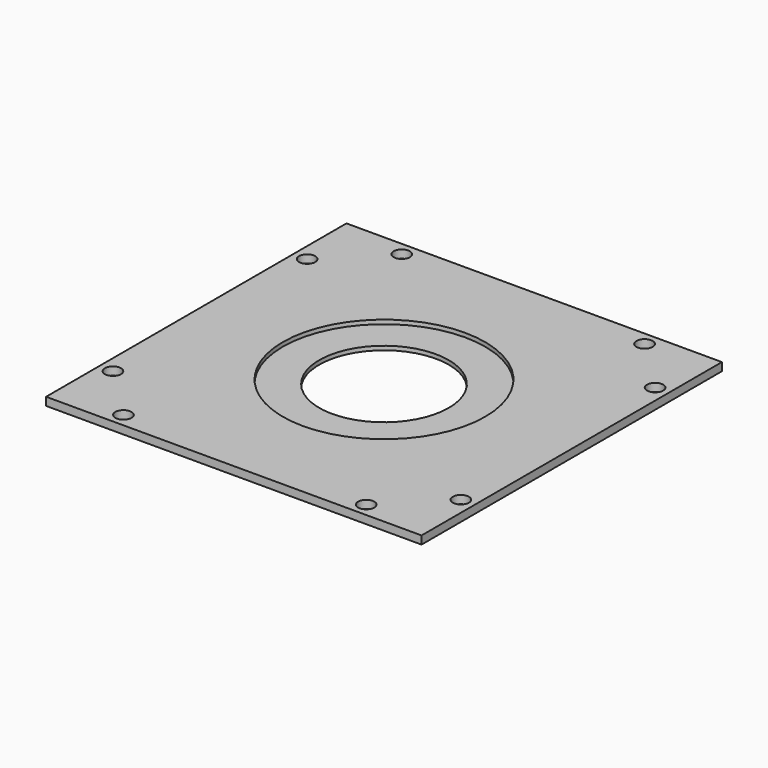
from build123d import *

# Parameters (mm, degrees)
F0_R     = 19.84375
F0_R_2   = 12.7
F1_DEPTH = 0.79375
F0_W     = 73.66
F0_H     = 73.66
F0_R_3   = 1.5875
F2_DEPTH = 1.5875


with BuildPart() as f1:
    # F0 (on Top) → F1 (new body)
    with BuildSketch(Plane.XY):
        Circle(F0_R)
        Circle(F0_R_2, mode=Mode.SUBTRACT)
    extrude(amount=F1_DEPTH)

    # F0 (on Top) → F2 (join)
    with BuildSketch(Plane.XY):
        Rectangle(F0_W, F0_H)
        with Locations((-23.8125, -34.13125)):
            Circle(F0_R_3, mode=Mode.SUBTRACT)
        with Locations((-34.13125, -23.8125)):
            Circle(F0_R_3, mode=Mode.SUBTRACT)
        Circle(F0_R, mode=Mode.SUBTRACT)
        with Locations((23.8125, -34.13125)):
            Circle(F0_R_3, mode=Mode.SUBTRACT)
        with Locations((34.13125, -23.8125)):
            Circle(F0_R_3, mode=Mode.SUBTRACT)
        with Locations((-34.13125, 23.8125)):
            Circle(F0_R_3, mode=Mode.SUBTRACT)
        with Locations((-23.8125, 34.13125)):
            Circle(F0_R_3, mode=Mode.SUBTRACT)
        with Locations((34.13125, 23.8125)):
            Circle(F0_R_3, mode=Mode.SUBTRACT)
        with Locations((23.8125, 34.13125)):
            Circle(F0_R_3, mode=Mode.SUBTRACT)
    extrude(amount=F2_DEPTH)


solid = f1.part
